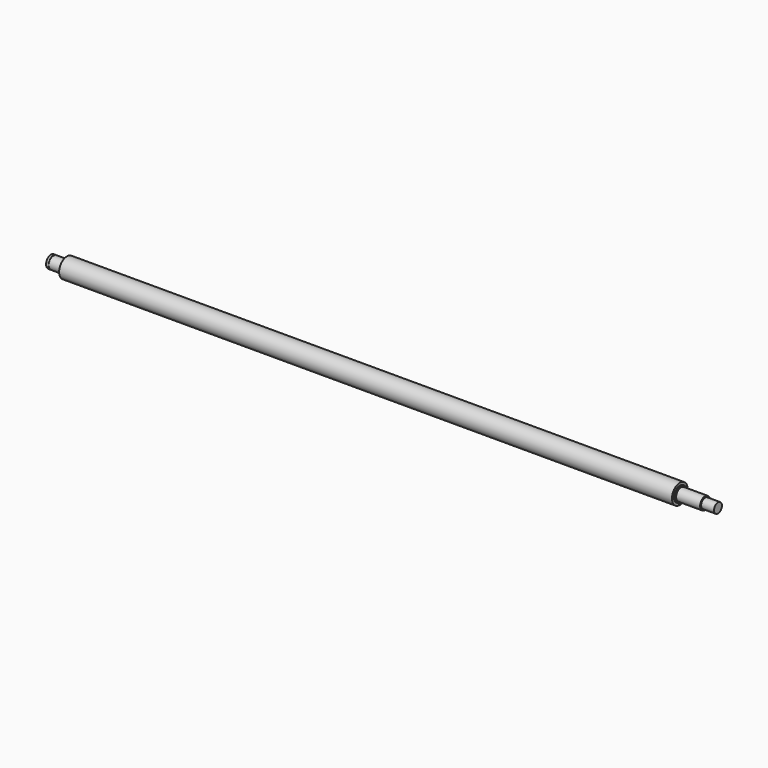
from build123d import *


with BuildPart() as f1:
    # F0 (on Front) → F1 (revolve)
    with BuildSketch(Plane.XZ):
        Polygon((-263, 5), (-263, 0), (279, 0), (279, 4), (268.5, 4), (268.5, 5), (249, 5), (249, 6), (248, 6), (248, 8), (-250, 8), (-250, 6), (-251, 6), (-251, 5), (-260.6, 5), (-260.6, 4.8), (-261.1, 4.8), (-261.1, 5), align=None)
    revolve(axis=Axis((8, 0, 0), (1, 0, 0)))


solid = f1.part
